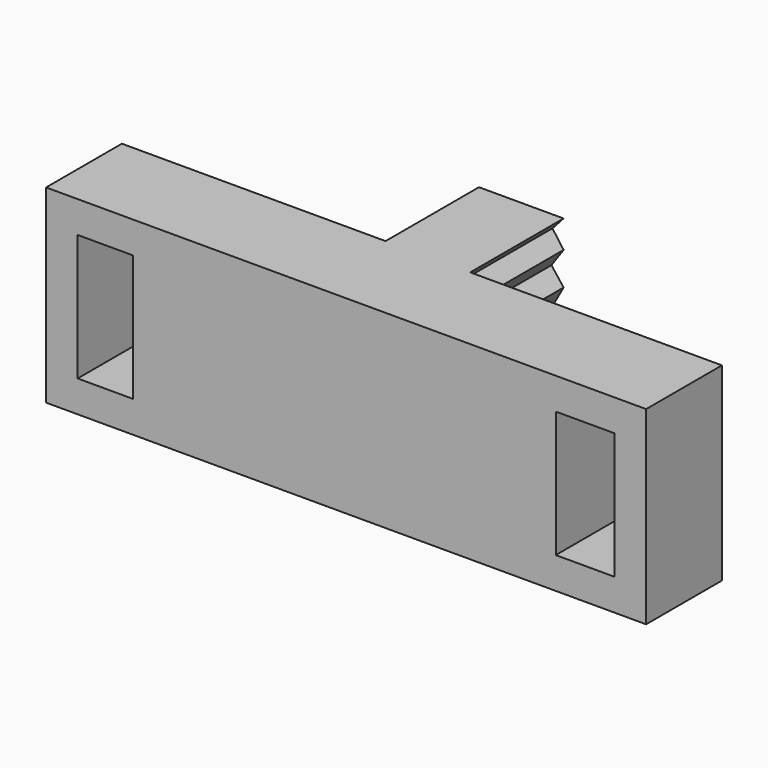
from build123d import *

# Parameters (mm, degrees)
F1_DEPTH = 5
F2_DEPTH = 1
F4_DEPTH = 7.3914
F6_DEPTH = 7.39191


with BuildPart() as f1:
    # F0 (on Front) → F1 (new body)
    with BuildSketch(Plane.XZ):
        Polygon((-25.2447519526, 9.528346464), (12.7552480474, 9.528346464), (12.7552480474, 21.528346464), (7.0332471505, 21.528346464), (-19.9667528495, 21.528346464), (-25.2447519526, 21.528346464), align=None)
        Polygon((-19.7447519526, 11.528346464), (-23.2447519526, 11.528346464), (-23.2447519526, 19.528346464), (-19.7447519526, 19.528346464), (7.0332471505, 19.528346464), (10.7552480474, 19.528346464), (10.7552480474, 11.528346464), (7.0332471505, 11.528346464), align=None, mode=Mode.SUBTRACT)
        Polygon((-19.7447519526, 17.1880803001), (-19.7447519526, 11.528346464), (7.0332471505, 11.528346464), (7.0332471505, 13.5917593283), (7.0332471505, 19.528346464), (-19.7447519526, 19.528346464), align=None)
    extrude(amount=F1_DEPTH)

    # F0 (on Front) → F2 (join)
    with BuildSketch(Plane.XZ):
        Polygon((-25.2447519526, 9.528346464), (12.7552480474, 9.528346464), (12.7552480474, 21.528346464), (7.0332471505, 21.528346464), (-19.9667528495, 21.528346464), (-25.2447519526, 21.528346464), align=None)
        Polygon((-19.7447519526, 11.528346464), (-23.2447519526, 11.528346464), (-23.2447519526, 19.528346464), (-19.7447519526, 19.528346464), (7.0332471505, 19.528346464), (10.7552480474, 19.528346464), (10.7552480474, 11.528346464), (7.0332471505, 11.528346464), align=None, mode=Mode.SUBTRACT)
        Polygon((-19.7447519526, 17.1880803001), (-19.7447519526, 11.528346464), (7.0332471505, 11.528346464), (7.0332471505, 13.5917593283), (7.0332471505, 19.528346464), (-19.7447519526, 19.528346464), align=None)
        Polygon((7.0332471505, 13.5917593283), (7.0332471505, 11.528346464), (10.7552480474, 11.528346464), (10.7552480474, 19.528346464), (7.0332471505, 19.528346464), align=None)
        Polygon((-23.2447519526, 19.528346464), (-23.2447519526, 11.528346464), (-19.7447519526, 11.528346464), (-19.7447519526, 17.1880803001), (-19.7447519526, 19.528346464), align=None)
    extrude(amount=-F2_DEPTH)

    # F3 (on face) → F4 (join)
    with BuildSketch(Plane(origin=(0, 1, 0), x_dir=(-1, 0, 0), z_dir=(0, 1, 0))):
        Polygon((9.3062466048, 21.528346464), (3.1832573004, 21.528346464), (3.1832573004, 18.1184094399), (3.1832573004, 9.528346464), (9.3062466048, 9.528346464), (9.3062466048, 18.1184094399), align=None)
    extrude(amount=F4_DEPTH)

    # F5 (on face) → F6 (cut)
    with BuildSketch(Plane(origin=(0, 8.3914, 0), x_dir=(-1, 0, 0), z_dir=(0, 1, 0))):
        Polygon((9.3062466048, 21.528346464), (8.5453148931, 21.528346464), (9.2639319636, 20.7179207355), (8.5584444031, 19.7446867824), (9.3062466048, 18.6747785349), align=None)
        Polygon((9.3062466048, 12.255012989), (9.3062466048, 18.6171480624), (8.5584444031, 17.650116235), (9.1581455935, 16.5710970759), (8.5584444031, 15.4978624135), (9.242774643, 14.4342118874), (8.5584444031, 13.4398201481), align=None)
        Polygon((9.3062466048, 10.2662295103), (9.3062466048, 12.255012989), (8.5584444031, 11.3029358909), align=None)
        Polygon((9.3062466048, 9.528346464), (9.3062466048, 10.2662295103), (8.5881125659, 9.528346464), align=None)
        Polygon((3.9310595021, 10.2967135608), (3.1832573004, 11.3334199414), (3.1832573004, 9.528346464), align=None)
        Polygon((3.9310595021, 12.2854970396), (3.1832573004, 13.4703041986), (3.1832573004, 11.3334199414), align=None)
        Polygon((3.8675875403, 14.4646959379), (3.1832573004, 15.528346464), (3.1832573004, 13.4703041986), align=None)
        Polygon((3.7829584908, 16.6015811265), (3.1832573004, 17.6806002855), (3.1832573004, 15.528346464), align=None)
        Polygon((3.9522168227, 18.6749920249), (3.1832573004, 19.7751708329), (3.1832573004, 17.6806002855), align=None)
        Polygon((3.8887448609, 20.748404786), (3.1832573004, 21.528346464), (3.1832573004, 19.7751708329), align=None)
    extrude(amount=-F6_DEPTH, mode=Mode.SUBTRACT)


solid = f1.part
